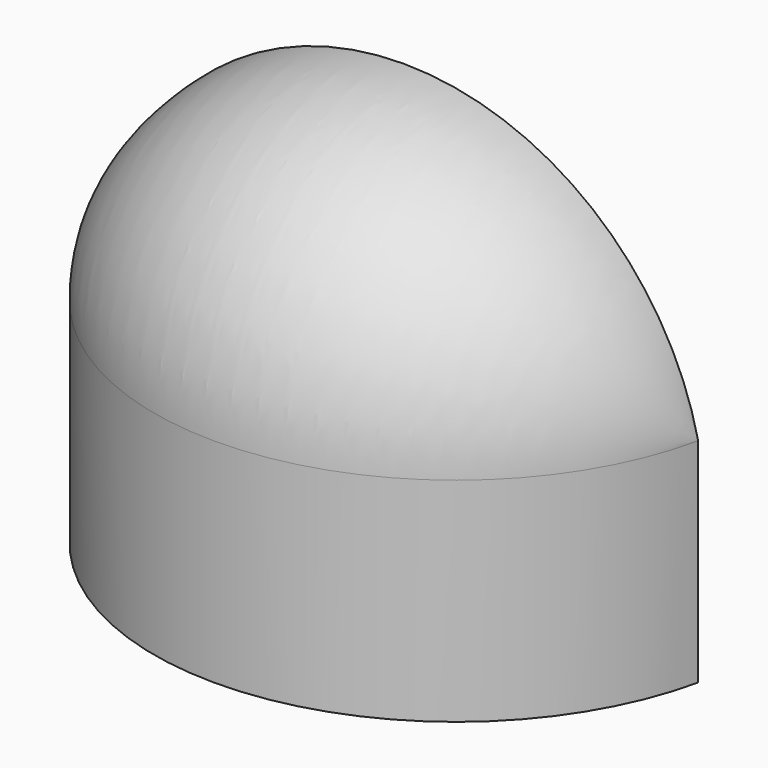
from build123d import *

# Parameters (mm, degrees)
F2_ANGLE = -90
F4_DEPTH = 13


with BuildPart() as f2:
    # F1 (on Front) → F2 (revolve)
    with BuildSketch(Plane.XZ):
        with BuildLine():
            ThreePointArc((18, 25), (0, 39.439089), (-18, 25))
            Line((-18, 25), (-15, 25))
            ThreePointArc((-15, 25), (0, 36.524175), (15, 25))
            Line((15, 25), (18, 25))
        make_face()
    revolve(axis=Axis((-35.381783, 0, 25), (-1, 0, 0)), revolution_arc=F2_ANGLE)

    # F3 (on offset) → F4 (join)
    with BuildSketch(Plane.XY.offset(25)):
        with BuildLine():
            ThreePointArc((-18, 0), (0, -14.439089), (18, 0))
            Line((18, 0), (15, 0))
            ThreePointArc((15, 0), (0, -11.524175), (-15, 0))
            Line((-15, 0), (-18, 0))
        make_face()
    extrude(amount=-F4_DEPTH)


solid = f2.part
